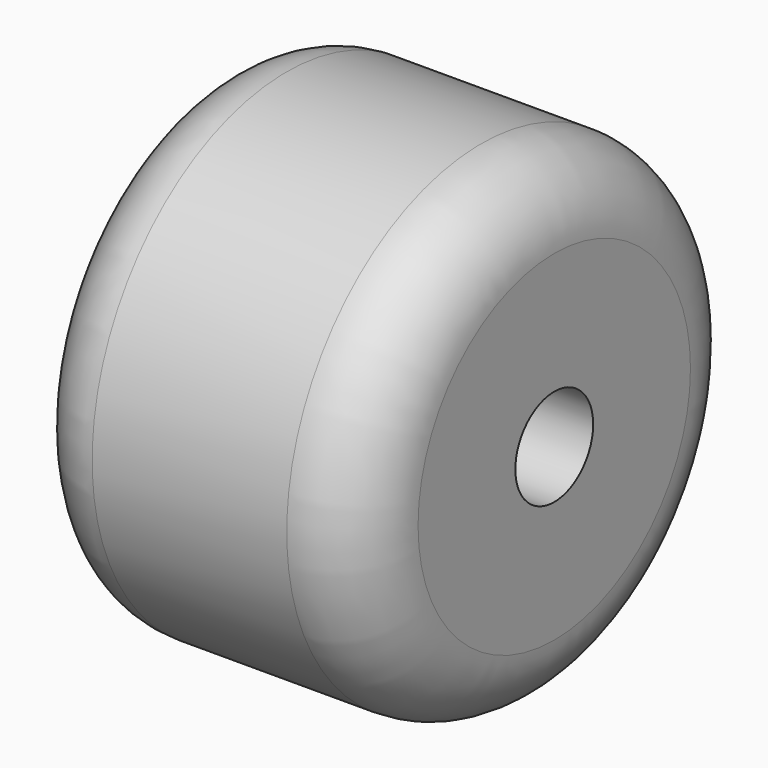
from build123d import *

# Parameters (mm, degrees)
F0_R     = 63.5
F1_DEPTH = 88.9
F2_R     = 19.05
F3_R     = 12.7
F4_DEPTH = 88.901


with BuildPart() as f1:
    # F0 (on Right) → F1 (new body)
    with BuildSketch(Plane.YZ):
        Circle(F0_R)
    extrude(amount=F1_DEPTH)

    # F2
    f2_edges = [f1.edges().sort_by_distance(p)[0] for p in [
        (0, -63.5, 0),
        (44.45, 63.5, 0),
        (88.9, -63.5, 0),
    ]]
    fillet(f2_edges, radius=F2_R)

    # F3 (on face) → F4 (cut, through all)
    with BuildSketch(Plane.YZ.offset(88.9)):
        Circle(F3_R)
    extrude(amount=-F4_DEPTH, mode=Mode.SUBTRACT)


solid = f1.part
